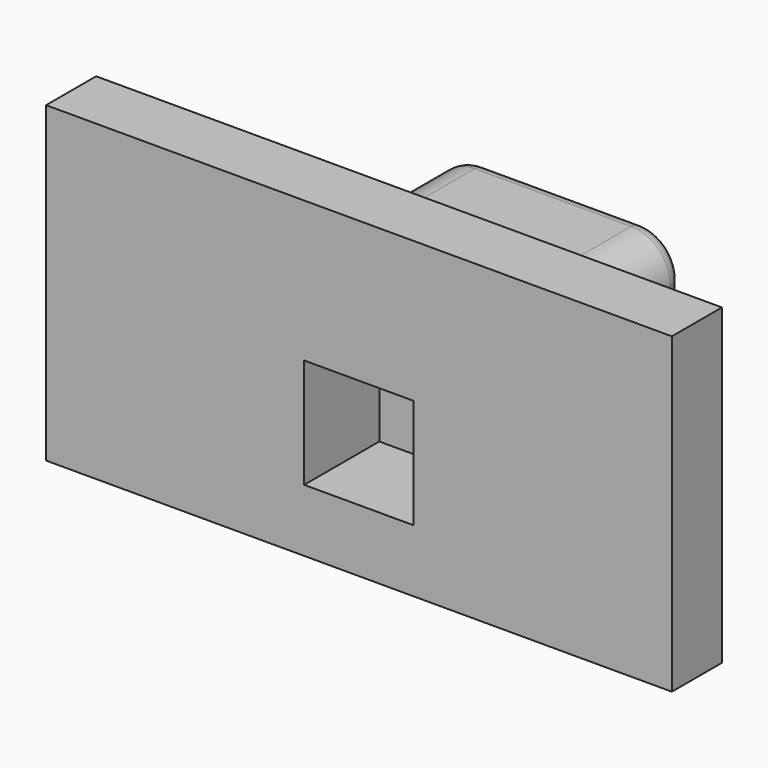
from build123d import *

# Parameters (mm, degrees)
F1_DEPTH = 3
F2_W     = 1.4
F2_H     = 1.4
F3_DEPTH = 1.2
F4_R     = 0.5
F5_R     = 0.2
F6_W     = 0.8
F6_H     = 1
F7_DEPTH = 8


with BuildPart() as f1:
    # F0 (on Top) → F1 (new body)
    with BuildSketch(Plane.XY):
        Polygon((0, 0.8), (0, 0), (8, 0), (8, 0.8), (5.5, 0.8), (5.5, 3.3), (2.5, 3.3), (2.5, 0.8), align=None)
    extrude(amount=F1_DEPTH)

    # F2 (on face) → F3 (cut)
    with BuildSketch(Plane.XZ):
        with Locations((4, 1.5)):
            Rectangle(F2_W, F2_H)
    extrude(amount=-F3_DEPTH, mode=Mode.SUBTRACT)

    # F4
    f4_edges = [f1.edges().sort_by_distance(p)[0] for p in [
        (5.5, 2.05, 3),
        (2.5, 2.05, 3),
        (2.5, 2.05, 0),
        (5.5, 2.05, 0),
    ]]
    fillet(f4_edges, radius=F4_R)

    # F5
    f5_edges = [f1.edges().sort_by_distance(p)[0] for p in [
        (4, 3.3, 3),
        (5.353553, 3.3, 2.853553),
        (5.5, 3.3, 1.5),
        (5.353553, 3.3, 0.146447),
        (4, 3.3, 0),
        (2.646447, 3.3, 0.146447),
        (2.5, 3.3, 1.5),
        (2.646447, 3.3, 2.853553),
    ]]
    fillet(f5_edges, radius=F5_R)

    # F6 (on face) → F7 (join, through all)
    with BuildSketch(Plane.YZ.offset(8)):
        with Locations((0.4, 3.5)):
            Rectangle(F6_W, F6_H)
    extrude(amount=-F7_DEPTH)


solid = f1.part
